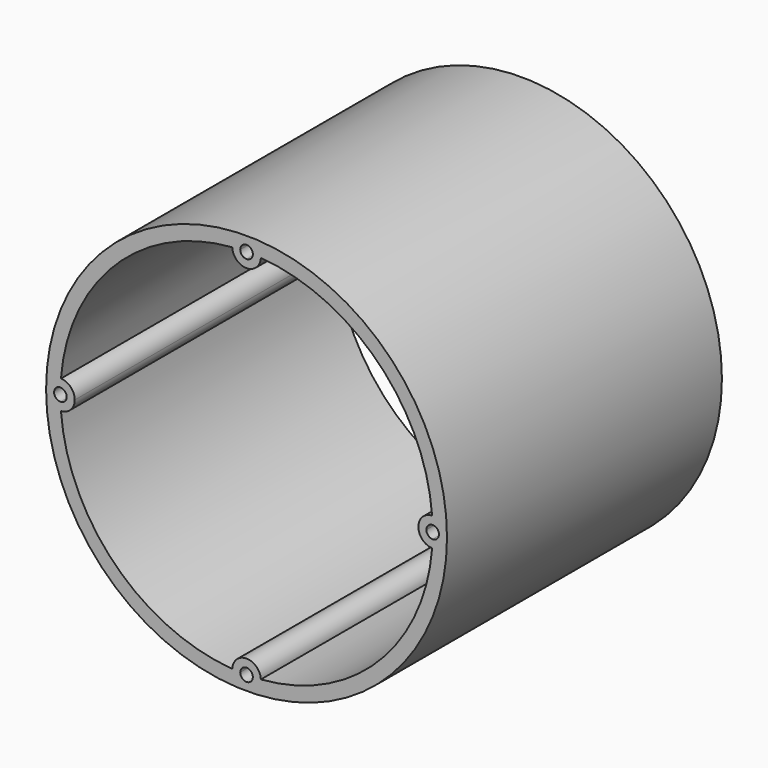
from build123d import *

# Parameters (mm, degrees)
F0_R     = 88.9
F1_DEPTH = 152.4
F4_DEPTH = 152.401
F5_DEPTH = 152.401


with BuildPart() as f1:
    # F0 (on Front) → F1 (new body)
    with BuildSketch(Plane.XZ):
        Circle(F0_R)
    extrude(amount=-F1_DEPTH)

    # F3 (on face) → F4 (cut, through all)
    with BuildSketch(Plane.XZ):
        with BuildLine():
            ThreePointArc((6.345302, 82.305769), (0, 76.2), (-6.345302, 82.305769))
            ThreePointArc((-6.345302, 82.305769), (-58.371665, 58.371665), (-82.305769, 6.345302))
            ThreePointArc((-82.305769, 6.345302), (-77.974338, 4.402933), (-76.2, 0))
            ThreePointArc((-76.2, 0), (-77.974338, -4.402933), (-82.305769, -6.345302))
            ThreePointArc((-82.305769, -6.345302), (-58.371665, -58.371665), (-6.345302, -82.305769))
            ThreePointArc((-6.345302, -82.305769), (0, -76.2), (6.345302, -82.305769))
            ThreePointArc((6.345302, -82.305769), (58.371665, -58.371665), (82.305769, -6.345302))
            ThreePointArc((82.305769, -6.345302), (76.2, 0), (82.305769, 6.345302))
            ThreePointArc((82.305769, 6.345302), (58.371665, 58.371665), (6.345302, 82.305769))
        make_face()
    extrude(amount=-F4_DEPTH, mode=Mode.SUBTRACT)

    # F2 (on face) → F5 (cut, through all)
    with BuildSketch(Plane.XZ):
        with BuildLine():
            ThreePointArc((-2.7936, 82.502717), (-1.958868, 80.557697), (0, 79.756))
            ThreePointArc((0, 79.756), (1.958868, 80.557697), (2.7936, 82.502717))
            ThreePointArc((2.7936, 82.502717), (2.7939, 82.526358), (2.794, 82.55))
            ThreePointArc((2.794, 82.55), (-0.023642, 85.3439), (-2.7936, 82.502717))
        make_face()
        with BuildLine():
            ThreePointArc((-82.502717, 2.7936), (-85.344, 0), (-82.502717, -2.7936))
            ThreePointArc((-82.502717, -2.7936), (-80.557697, -1.958868), (-79.756, 0))
            ThreePointArc((-79.756, 0), (-80.557697, 1.958868), (-82.502717, 2.7936))
        make_face()
        with BuildLine():
            ThreePointArc((79.756, 0), (80.557697, -1.958868), (82.502717, -2.7936))
            ThreePointArc((82.502717, -2.7936), (84.508868, -1.992303), (85.344, 0))
            ThreePointArc((85.344, 0), (84.508868, 1.992303), (82.502717, 2.7936))
            ThreePointArc((82.502717, 2.7936), (80.557697, 1.958868), (79.756, 0))
        make_face()
        with BuildLine():
            ThreePointArc((2.794, -82.55), (2.7939, -82.526358), (2.7936, -82.502717))
            ThreePointArc((2.7936, -82.502717), (1.958868, -80.557697), (0, -79.756))
            ThreePointArc((0, -79.756), (-1.958868, -80.557697), (-2.7936, -82.502717))
            ThreePointArc((-2.7936, -82.502717), (-0.023642, -85.3439), (2.794, -82.55))
        make_face()
    extrude(amount=-F5_DEPTH, mode=Mode.SUBTRACT)


solid = f1.part
